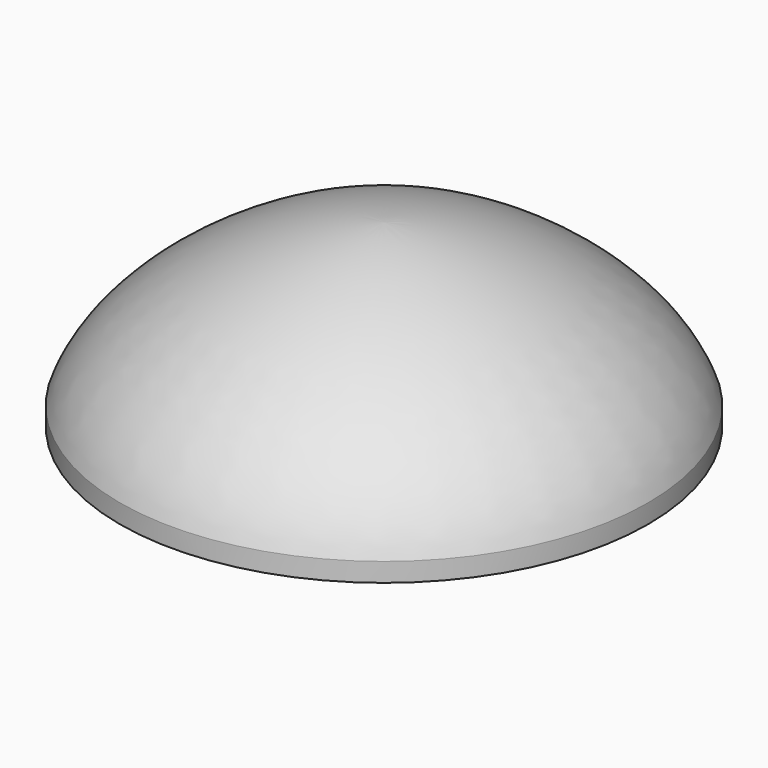
from build123d import *


with BuildPart() as f1:
    # F0 (on Front) → F1 (revolve)
    with BuildSketch(Plane.XZ):
        with BuildLine():
            Line((-11.7348, 0), (0, 0))
            Line((0, 0), (0, 8.001))
            add(Edge.make_bspline(
                [(-11.7348, 0.841739), (-10.381158, 4.631172), (-4.281096, 7.896862), (0, 8.001)],
                knots=[0, 0, 0, 0, 13.746292, 13.746292, 13.746292, 13.746292], degree=3))
            Line((-11.7348, 0.841739), (-11.7348, 0))
        make_face()
    revolve(axis=Axis((0, 0, 4.0005), (0, 0, -1)))


solid = f1.part
